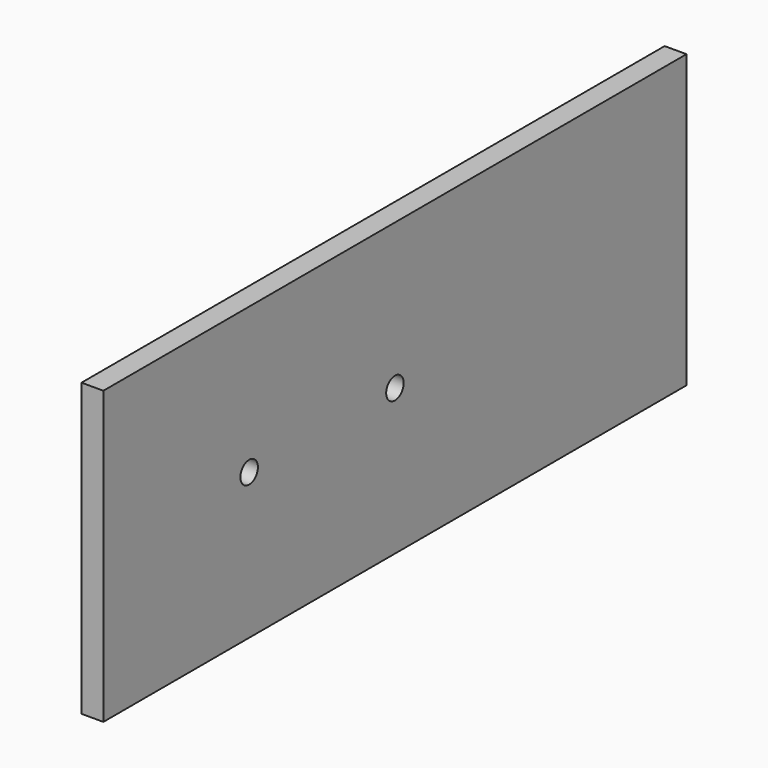
from build123d import *

# Parameters (mm, degrees)
F0_W     = 100
F0_H     = 40
F1_DEPTH = 3
F3_D     = 3


with BuildPart() as f1:
    # F0 (on Right) → F1 (new body)
    with BuildSketch(Plane.YZ):
        with Locations((50, -20)):
            Rectangle(F0_W, F0_H)
    extrude(amount=-F1_DEPTH)

    # F3 (through all)
    with Locations(Plane.YZ):
        with Locations((50, -20), (25, -20)):
            Hole(F3_D / 2)


solid = f1.part
